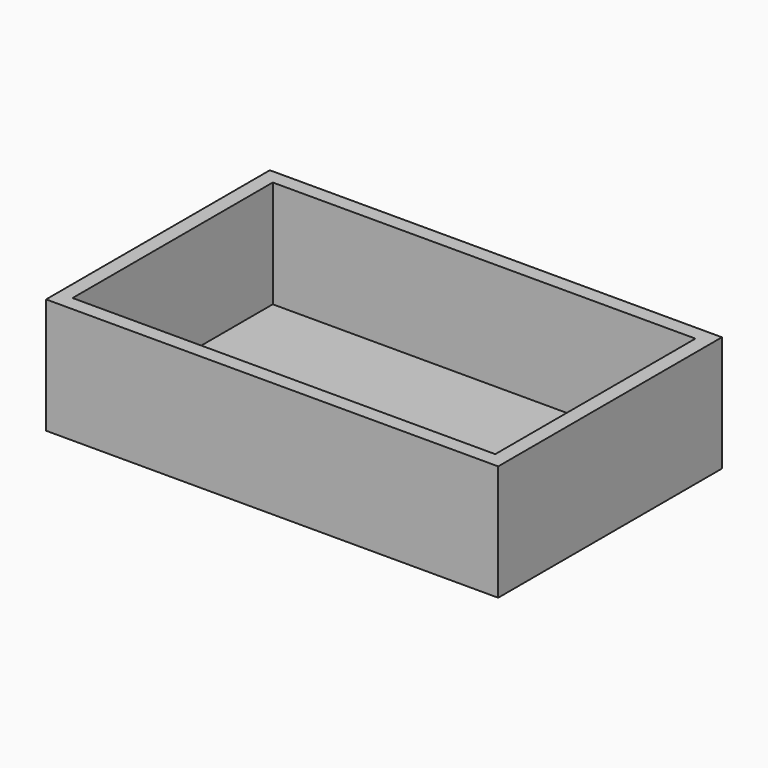
from build123d import *

# Parameters (mm, degrees)
F0_W     = 215
F0_H     = 133
F0_W_2   = 201
F0_H_2   = 119
F1_DEPTH = 55
F2_DEPTH = 4


with BuildPart() as f1:
    # F0 (on Top) → F1 (new body)
    with BuildSketch(Plane.XY):
        with Locations((8.318221, 31.735373)):
            Rectangle(F0_W, F0_H)
        with Locations((8.318221, 31.735373)):
            Rectangle(F0_W_2, F0_H_2, mode=Mode.SUBTRACT)
    extrude(amount=F1_DEPTH)

    # F0 (on Top) → F2 (join)
    with BuildSketch(Plane.XY):
        with Locations((8.318221, 31.735373)):
            Rectangle(F0_W, F0_H)
        with Locations((8.318221, 31.735373)):
            Rectangle(F0_W_2, F0_H_2, mode=Mode.SUBTRACT)
        with Locations((8.318221, 31.735373)):
            Rectangle(F0_W_2, F0_H_2)
    extrude(amount=F2_DEPTH)


solid = f1.part
